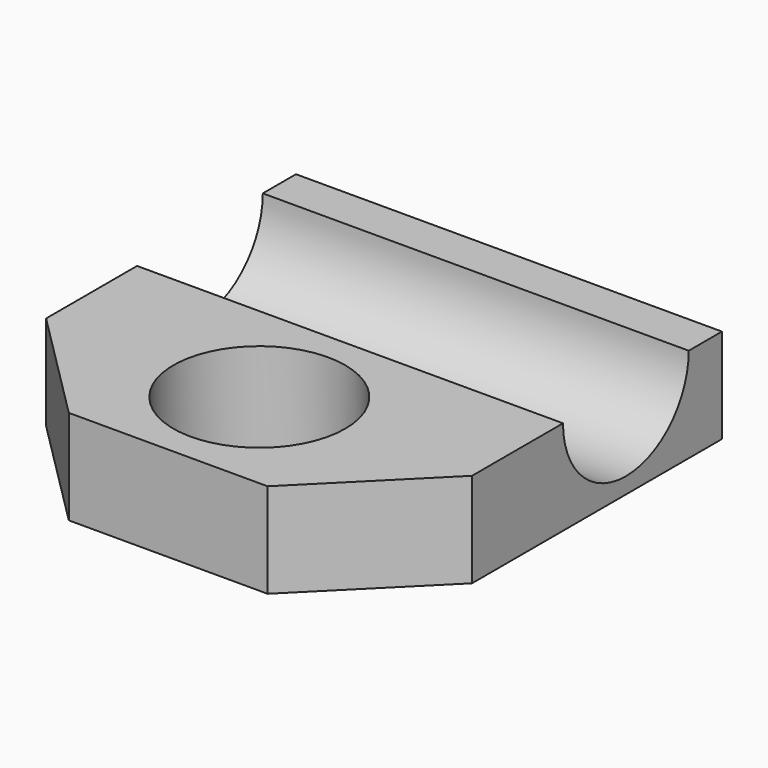
from build123d import *

# Parameters (mm, degrees)
F1_DEPTH = 12.7
F2_SIZE  = 15.24
F3_R     = 11.530279
F4_DEPTH = 12.7
F6_DEPTH = 63.5


with BuildPart() as f1:
    # F0 (on Top) → F1 (new body)
    with BuildSketch(Plane.XY):
        Polygon((28.575, 28.575), (0, 28.575), (-28.575, 28.575), (-28.575, 0), (-28.575, -28.575), (0, -28.575), (28.575, -28.575), (28.575, 0), align=None)
    extrude(amount=F1_DEPTH)

    # F2
    f2_edges = [f1.edges().sort_by_distance(p)[0] for p in [
        (28.575, -28.575, 6.35),
        (-28.575, -28.575, 6.35),
    ]]
    chamfer(f2_edges, length=F2_SIZE)

    # F3 (on face) → F4 (cut)
    with BuildSketch(Plane.XY.offset(12.7)):
        with Locations((0, -13.289176)):
            Circle(F3_R)
    extrude(amount=-F4_DEPTH, mode=Mode.SUBTRACT)

    # F5 (on face) → F6 (cut)
    with BuildSketch(Plane.YZ.offset(28.575)):
        with BuildLine():
            Line((23.010647, 12.7), (1.922707, 12.7))
            ThreePointArc((1.922707, 12.7), (12.466677, 2.15603), (23.010647, 12.7))
        make_face()
    extrude(amount=-F6_DEPTH, mode=Mode.SUBTRACT)


solid = f1.part
